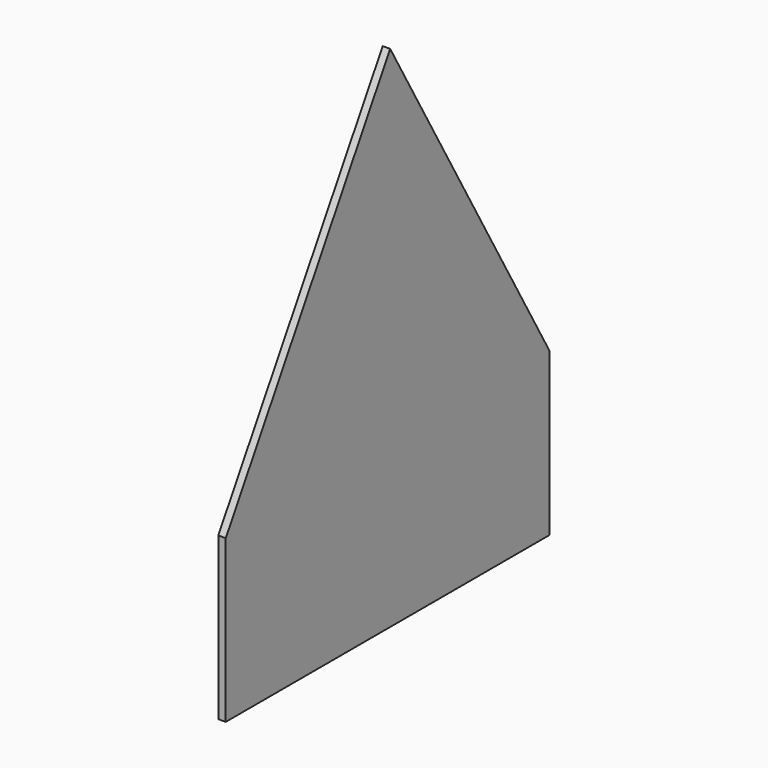
from build123d import *

# Parameters (mm, degrees)
F1_DEPTH = 3
F2_W     = 162.744028
F2_H     = 65
F3_DEPTH = 3


with BuildPart() as f1:
    # F0 (on Right) → F1 (new body)
    with BuildSketch(Plane.YZ):
        Polygon((0, 94.307416), (-82.596524, -45.242584), (80.147504, -45.242584), align=None)
    extrude(amount=F1_DEPTH)

    # F2 (on face) → F3 (join)
    with BuildSketch(Plane(origin=(0, 0, 0), x_dir=(0, -1, 0), z_dir=(-1, 0, 0))):
        with Locations((1.22451, -77.742584)):
            Rectangle(F2_W, F2_H)
    extrude(amount=-F3_DEPTH)


solid = f1.part
